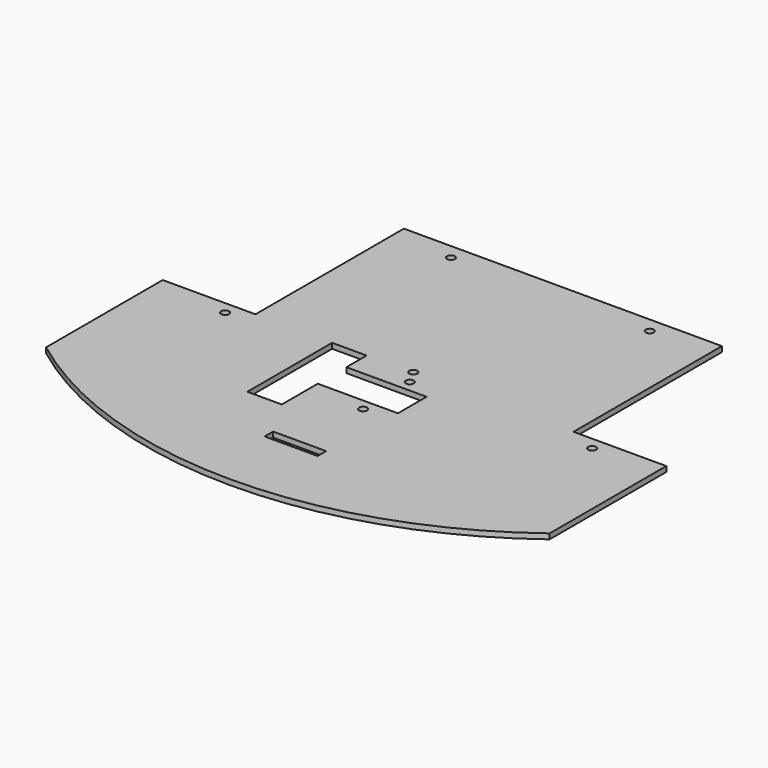
from build123d import *

# Parameters (mm, degrees)
SKETCH058_W      = 13
SKETCH058_H      = 40
EXTRUDE063_DEPTH = 7.5
SKETCH044_W      = 35
SKETCH044_H      = 13.5
EXTRUDE043_DEPTH = 15
SKETCH040_R      = 1.5
SKETCH040_W      = 20
SKETCH040_H      = 4
EXTRUDE039_DEPTH = 2


with BuildPart() as axe_hit_gap:
    # Sketch058 (on Face5 of Cut022) → Extrude063 (new body, symmetric)
    with BuildSketch(Plane.XY.offset(37)):
        with Locations((-24.5, -55)):
            Rectangle(SKETCH058_W, SKETCH058_H)
    extrude(amount=EXTRUDE063_DEPTH, both=True)


with BuildPart() as servo_lid_gap:
    # Sketch044 (on Face8 of Cut013) → Extrude043 (new body, symmetric)
    with BuildSketch(Plane.XY.offset(38)):
        with Locations((-5.5, -51.264048)):
            Rectangle(SKETCH044_W, SKETCH044_H)
    extrude(amount=EXTRUDE043_DEPTH, both=True)


with BuildPart() as servo_lid_gap_1:
    # Extrude043 placement: moved
    add(servo_lid_gap.part.moved(Location((0.25, 0, 0))))


with BuildPart() as lid:
    # Sketch040 (on Face4 of Cut018) → Extrude039 (new body)
    with BuildSketch(Plane.XY.offset(35)):
        with BuildLine():
            Line((-60, 35.090242), (60, 35.090242))
            Line((60, 35.090242), (60, -34.909758))
            Line((60, -34.909758), (95, -34.909758))
            Line((95, -34.909758), (95, -89.909758))
            ThreePointArc((-95, -89.909758), (0, -121.776758), (95, -89.909758))
            Line((-95, -34.909758), (-95, -89.909758))
            Line((-60, -34.909758), (-95, -34.909758))
            Line((-60, 35.090242), (-60, -34.909758))
        make_face()
        with Locations((70.898361, -39.7159)):
            Circle(SKETCH040_R, mode=Mode.SUBTRACT)
        with Locations((37.389542, 29.290899)):
            Circle(SKETCH040_R, mode=Mode.SUBTRACT)
        with Locations((-37.606323, 29.30405)):
            Circle(SKETCH040_R, mode=Mode.SUBTRACT)
        with Locations((-67.618576, -39.684311)):
            Circle(SKETCH040_R, mode=Mode.SUBTRACT)
        with Locations((-0.618404, -34.70805)):
            Circle(SKETCH040_R, mode=Mode.SUBTRACT)
        with Locations((2.483619, -40.255589)):
            Circle(SKETCH040_R, mode=Mode.SUBTRACT)
        with Locations((2.509327, -62.294186)):
            Circle(SKETCH040_R, mode=Mode.SUBTRACT)
        with Locations((0.80288, -92.081482)):
            Rectangle(SKETCH040_W, SKETCH040_H, mode=Mode.SUBTRACT)
    extrude(amount=EXTRUDE039_DEPTH)

    # Cut022: cut Servo Lid Gap
    add(servo_lid_gap_1.part, mode=Mode.SUBTRACT)

    # Cut035: cut Axe Hit Gap
    add(axe_hit_gap.part, mode=Mode.SUBTRACT)


solid = lid.part
